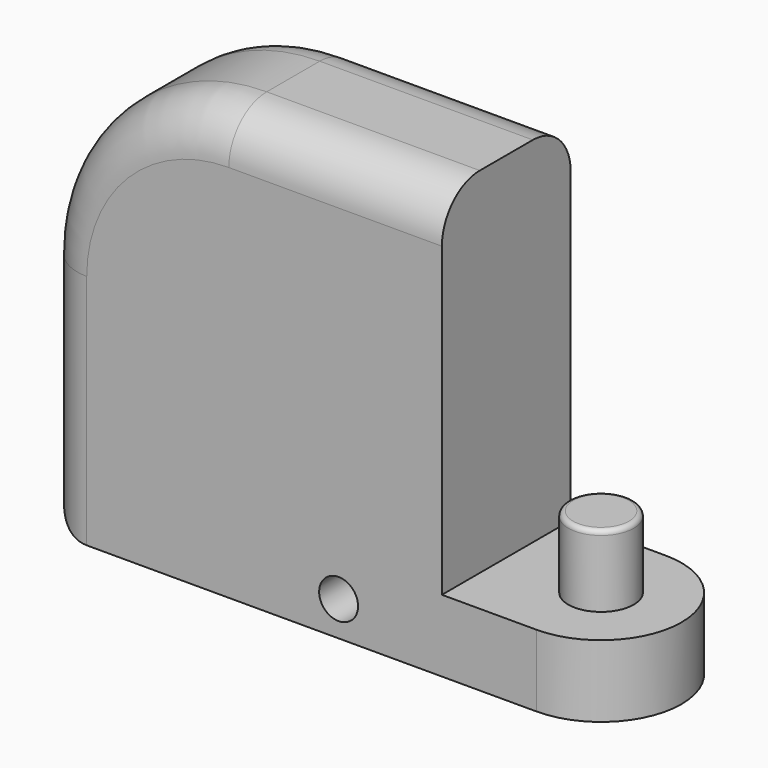
from build123d import *

# Parameters (mm, degrees)
F0_W     = 25.4
F0_H     = 19.304
F1_DEPTH = 43.18
F3_DEPTH = 19.304
F4_R     = 8.763
F5_DEPTH = 19.304
F6_R     = 1.27
F7_R     = 12.7
F8_R     = 5.2197
F9_DEPTH = 43.181


with BuildPart() as f1:
    # F0 (on Front) → F1 (new body)
    with BuildSketch(Plane.XZ):
        with BuildLine():
            Line((0, 63.5), (0, 0))
            Line((0, 0), (107.95, 0))
            Line((107.95, 0), (107.95, 19.304))
            Line((107.95, 19.304), (107.95, 114.3))
            Line((107.95, 114.3), (50.8, 114.3))
            ThreePointArc((50.8, 114.3), (14.878976, 99.421024), (0, 63.5))
        make_face()
        with Locations((120.65, 9.652)):
            Rectangle(F0_W, F0_H)
    extrude(amount=F1_DEPTH)

    # F2 (on face) → F3 (join)
    with BuildSketch(Plane.XY.offset(19.304)):
        with BuildLine():
            Line((133.35, 0), (133.35, -43.18))
            ThreePointArc((133.35, -43.18), (154.94, -21.59), (133.35, 0))
        make_face()
    extrude(amount=-F3_DEPTH)

    # F4 (on face) → F5 (join)
    with BuildSketch(Plane.XY.offset(19.304)):
        with Locations((133.35, -21.59)):
            Circle(F4_R)
    extrude(amount=F5_DEPTH)

    # F6
    f6_edges = [f1.edges().sort_by_distance(p)[0] for p in [
        (124.587, -21.59, 38.608),
    ]]
    fillet(f6_edges, radius=F6_R)

    # F7
    f7_edges = [f1.edges().sort_by_distance(p)[0] for p in [
        (50.8, -21.59, 114.3),
        (0, -21.59, 63.5),
        (14.878976, 0, 99.421024),
        (14.878976, -43.18, 99.421024),
        (0, -21.59, 0),
    ]]
    fillet(f7_edges, radius=F7_R)

    # F8 (on face) → F9 (cut, through all)
    with BuildSketch(Plane.XZ.offset(43.18)):
        with Locations((80.242619, 9.295693)):
            Circle(F8_R)
    extrude(amount=-F9_DEPTH, mode=Mode.SUBTRACT)


solid = f1.part
